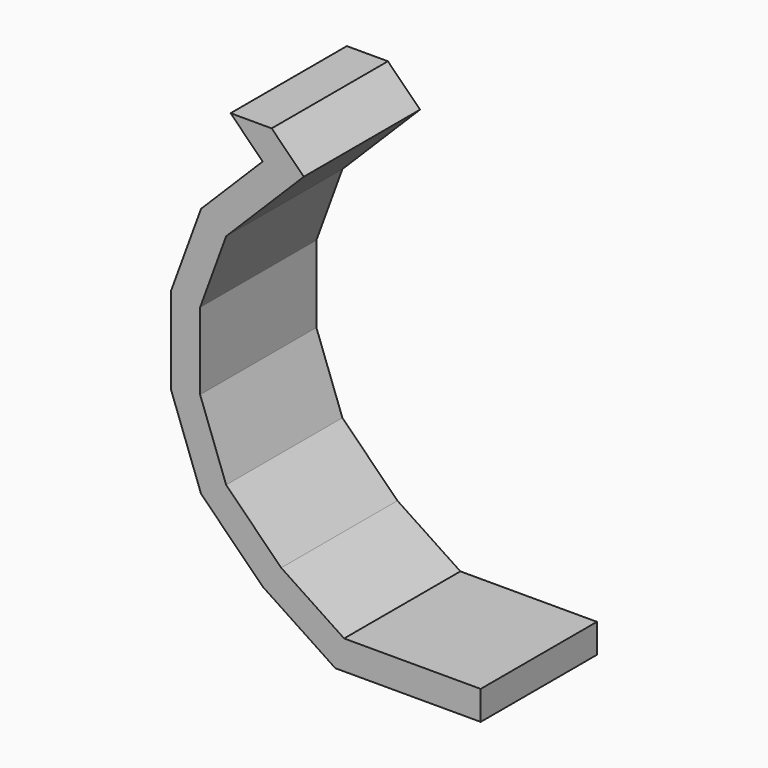
from build123d import *

# Parameters (mm, degrees)
F1_DEPTH = 6.35


with BuildPart() as f1:
    # F0 (on Front) → F1 (new body, symmetric)
    with BuildSketch(Plane.XZ):
        Polygon((5.759195, -18.516731), (18.459195, -18.516731), (18.459195, -15.976731), (6.525034, -15.976731), (1.0253, -12.328621), (-3.786456, -7.516864), (-6.058249, -1.31052), (-6.058249, 5.408947), (-3.786456, 11.615292), (3.001297, 18.403045), (0.194161, 21.210181), (-3.397941, 21.210181), (-0.590805, 18.403045), (-5.978959, 13.014891), (-8.598249, 5.859214), (-8.598249, -1.760786), (-5.978959, -8.916464), (-0.590805, -14.304617), align=None)
    extrude(amount=F1_DEPTH, both=True)


solid = f1.part
